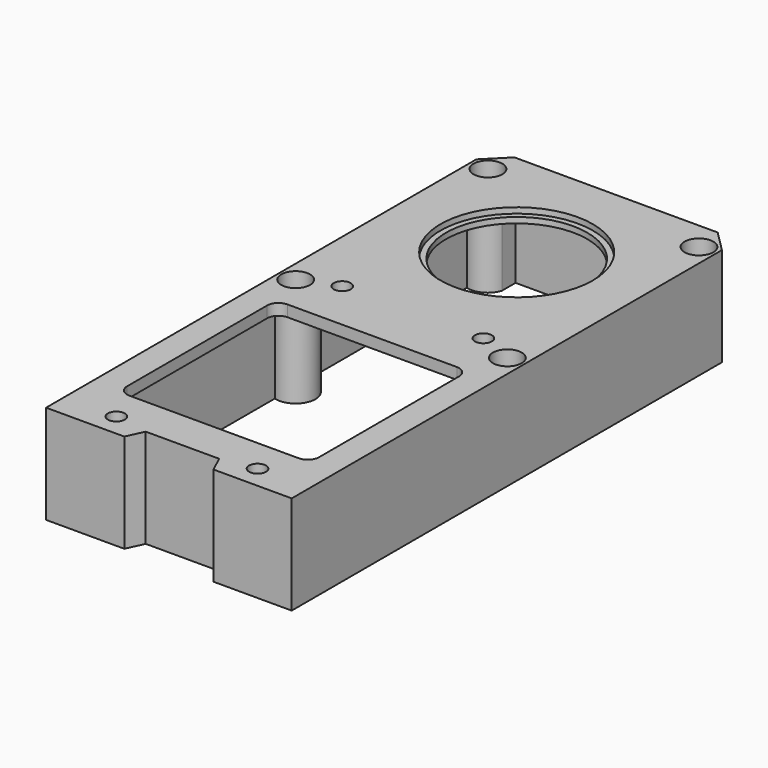
from build123d import *

# Parameters (mm, degrees)
SKETCH_R        = 3.25
SKETCH_R_2      = 3
SKETCH_R_3      = 25
PAD_DEPTH       = 35
POCKET_DEPTH    = 31
SKETCH003_R     = 5.1
POCKET001_DEPTH = 6
SKETCH004_R     = 27
POCKET002_DEPTH = 2


with BuildPart() as part:
    # Sketch → Pad (new body)
    with BuildSketch(Plane.XY):
        Polygon((-43.5, 190.5), (-43.5, 0), (-15.797846, 0), (-13, 6), (13, 6), (15.797846, 0), (43.5, 0), (43.5, 190.5), (36, 198), (-36, 198), align=None)
        with Locations((-37.5, 188)):
            Circle(SKETCH_R, mode=Mode.SUBTRACT)
        with Locations((37.5, 188)):
            Circle(SKETCH_R, mode=Mode.SUBTRACT)
        with Locations((-25, 108)):
            Circle(SKETCH_R_2, mode=Mode.SUBTRACT)
        with Locations((25, 108)):
            Circle(SKETCH_R_2, mode=Mode.SUBTRACT)
        with Locations((37.5, 103)):
            Circle(SKETCH_R, mode=Mode.SUBTRACT)
        with Locations((-37.5, 103)):
            Circle(SKETCH_R, mode=Mode.SUBTRACT)
        with Locations((-25, 8)):
            Circle(SKETCH_R_2, mode=Mode.SUBTRACT)
        with Locations((25, 8)):
            Circle(SKETCH_R_2, mode=Mode.SUBTRACT)
        with Locations((0, 154)):
            Circle(SKETCH_R_3, mode=Mode.SUBTRACT)
        with BuildLine():
            ThreePointArc((-30, 90), (-32.828431, 88.828423), (-34, 85.999989))
            Line((-34, 24), (-34, 85.999989))
            ThreePointArc((-34, 24), (-32.828427, 21.171573), (-30, 20))
            Line((-30, 20), (30, 20))
            ThreePointArc((30, 20), (32.828427, 21.171573), (34, 24))
            Line((34, 85.999989), (34, 24))
            ThreePointArc((34, 85.999989), (32.828431, 88.828424), (29.999999, 90))
            Line((-30, 90), (29.999999, 90))
        make_face(mode=Mode.SUBTRACT)
    extrude(amount=PAD_DEPTH)

    # Sketch002 → Pocket (cut)
    with BuildSketch(Plane(origin=(0, 0, 0), x_dir=(1, 0, 0), z_dir=(0, 0, -1))):
        with BuildLine():
            Line((-39.5, -96.291796), (-39.5, -4))
            Line((-39.5, -4), (-18.607695, -4))
            Line((-18.607695, -4), (-17, -10))
            Line((-17, -10), (17, -10))
            Line((17, -10), (18.607695, -4))
            Line((18.607695, -4), (39.5, -4))
            Line((39.5, -4), (39.5, -96.291796))
            ThreePointArc((39.5, -96.291796), (30.5, -103), (39.5, -109.708204))
            Line((39.5, -109.708204), (39.5, -181.291796))
            ThreePointArc((39.5, -181.291796), (34.170797, -181.84237), (30.791796, -186))
            Line((30.791796, -192), (30.791796, -186))
            Line((-30.791796, -192), (30.791796, -192))
            Line((-30.791796, -186), (-30.791796, -192))
            ThreePointArc((-30.791796, -186), (-34.170797, -181.84237), (-39.5, -181.291796))
            Line((-39.5, -109.708204), (-39.5, -181.291796))
            ThreePointArc((-39.5, -109.708204), (-30.5, -103), (-39.5, -96.291796))
        make_face()
    extrude(amount=-POCKET_DEPTH, mode=Mode.SUBTRACT)

    # Sketch003 → Pocket001 (cut)
    with BuildSketch(Plane.XY.offset(35)):
        with Locations((-37.371348, 188)):
            Circle(SKETCH003_R)
        with Locations((37.371348, 188)):
            Circle(SKETCH003_R)
        with Locations((-37.5, 103)):
            Circle(SKETCH003_R)
        with Locations((37.5, 103)):
            Circle(SKETCH003_R)
    extrude(amount=-POCKET001_DEPTH, mode=Mode.SUBTRACT)

    # Sketch004 → Pocket002 (cut)
    with BuildSketch(Plane.XY.offset(35)):
        with Locations((0, 154)):
            Circle(SKETCH004_R)
    extrude(amount=-POCKET002_DEPTH, mode=Mode.SUBTRACT)


solid = part.part
